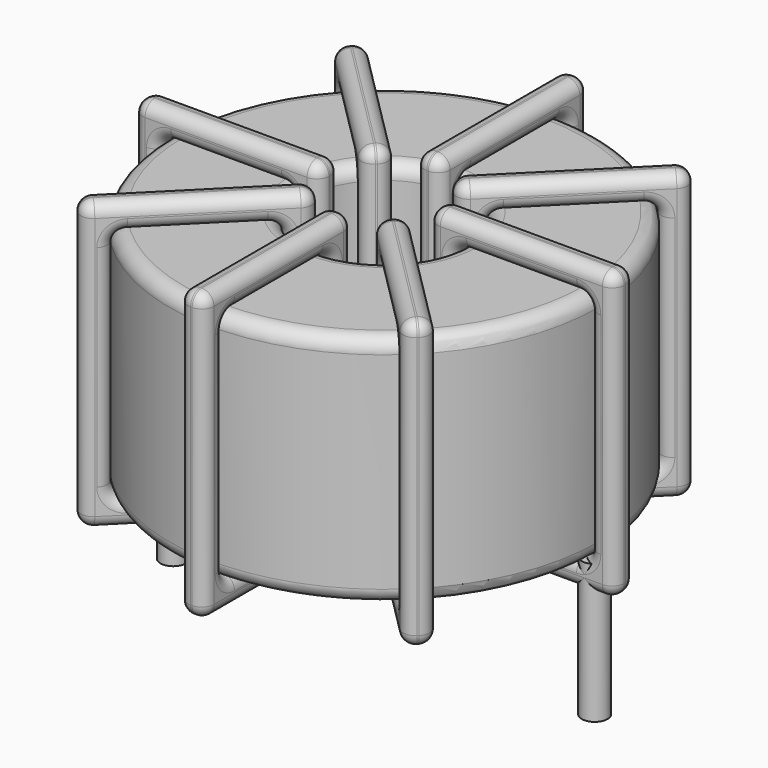
from build123d import *

# Parameters (mm, degrees)
SKETCH001_R       = 0.45
PAD001_DEPTH      = 0.45
PAD001_DEPTH_BACK = 4.4
SKETCH_R          = 7.5
SKETCH_R_2        = 2.8
PAD_DEPTH         = 8.2
FILLET_R          = 0.5
SKETCH003_W       = 6.5
SKETCH003_H       = 10
SKETCH003_W_2     = 4.7
SKETCH003_H_2     = 8.2
PAD002_DEPTH      = 0.45
FILLET001_R       = 0.423
SKETCH004_W       = 6.5
SKETCH004_H       = 10
SKETCH004_W_2     = 4.7
SKETCH004_H_2     = 8.2
PAD003_DEPTH      = 0.45
FILLET002_R       = 0.423
SKETCH005_W       = 6.5
SKETCH005_H       = 10
SKETCH005_W_2     = 4.7
SKETCH005_H_2     = 8.2
PAD004_DEPTH      = 0.45
FILLET003_R       = 0.423
SKETCH006_W       = 6.5
SKETCH006_H       = 10
SKETCH006_W_2     = 4.7
SKETCH006_H_2     = 8.2
PAD005_DEPTH      = 0.45
FILLET004_R       = 0.423


with BuildPart() as pad001:
    # Sketch001 → Pad001 (new body, two sides)
    with BuildSketch(Plane.XY.offset(0.95)) as pad001_sk:
        Circle(SKETCH001_R)
        with Locations((14.7, 0)):
            Circle(SKETCH001_R)
    extrude(amount=PAD001_DEPTH)
    extrude(pad001_sk.sketch, amount=-PAD001_DEPTH_BACK)


with BuildPart() as fillet_body:
    # Sketch → Pad (new body)
    with BuildSketch(Plane.XY.offset(1.4)):
        with Locations((7.35, 0)):
            Circle(SKETCH_R)
        with Locations((7.35, 0)):
            Circle(SKETCH_R_2, mode=Mode.SUBTRACT)
    extrude(amount=PAD_DEPTH)

    # Fillet
    fillet_edges = [fillet_body.edges().sort_by_distance(p)[0] for p in [
        (4.55, 0, 9.6),
        (-0.15, 0, 9.6),
        (-0.15, 0, 1.4),
    ]]
    fillet(fillet_edges, radius=FILLET_R)


with BuildPart() as fillet001:
    # Sketch003 → Pad002 (new body, symmetric)
    with BuildSketch(Plane(origin=(7.35, 0, 0), x_dir=(1, 0, 0), z_dir=(0, -1, 0))):
        with Locations((-5.15, 5.5)):
            Rectangle(SKETCH003_W, SKETCH003_H)
        with Locations((-5.15, 5.5)):
            Rectangle(SKETCH003_W_2, SKETCH003_H_2, mode=Mode.SUBTRACT)
        with Locations((5.15, 5.5)):
            Rectangle(SKETCH003_W, SKETCH003_H)
        with Locations((5.15, 5.5)):
            Rectangle(SKETCH003_W_2, SKETCH003_H_2, mode=Mode.SUBTRACT)
    extrude(amount=PAD002_DEPTH, both=True)

    # Fillet001
    fillet001_edges = [fillet001.edges().sort_by_distance(p)[0] for p in [
        (14.85, 0, 9.6),
        (14.85, 0, 1.4),
        (14.85, 0.45, 5.5),
        (14.85, -0.45, 5.5),
        (15.75, 0, 0.5),
        (9.25, 0, 0.5),
        (12.5, 0.45, 0.5),
        (12.5, -0.45, 0.5),
        (9.25, 0, 10.5),
        (9.25, 0.45, 5.5),
        (9.25, -0.45, 5.5),
        (-0.15, 0, 9.6),
        (4.55, 0, 9.6),
        (2.2, 0.45, 9.6),
        (2.2, -0.45, 9.6),
        (4.55, 0, 1.4),
        (4.55, 0.45, 5.5),
        (4.55, -0.45, 5.5),
        (5.45, 0, 0.5),
        (-1.05, 0, 0.5),
        (2.2, 0.45, 0.5),
        (2.2, -0.45, 0.5),
        (-1.05, 0, 10.5),
        (-1.05, 0.45, 5.5),
        (-1.05, -0.45, 5.5),
        (10.15, 0, 9.6),
        (12.5, 0.45, 9.6),
        (12.5, -0.45, 9.6),
        (-0.15, 0, 1.4),
        (-0.15, 0.45, 5.5),
        (-0.15, -0.45, 5.5),
        (2.2, 0.45, 1.4),
        (2.2, -0.45, 1.4),
        (5.45, 0, 10.5),
        (2.2, 0.45, 10.5),
        (2.2, -0.45, 10.5),
        (5.45, 0.45, 5.5),
        (5.45, -0.45, 5.5),
        (15.75, 0, 10.5),
        (12.5, 0.45, 10.5),
        (12.5, -0.45, 10.5),
        (15.75, 0.45, 5.5),
        (15.75, -0.45, 5.5),
        (10.15, 0, 1.4),
        (10.15, 0.45, 5.5),
        (10.15, -0.45, 5.5),
        (12.5, 0.45, 1.4),
        (12.5, -0.45, 1.4),
    ]]
    fillet(fillet001_edges, radius=FILLET001_R)


with BuildPart() as fillet002:
    # Sketch004 → Pad003 (new body, symmetric)
    with BuildSketch(Plane(origin=(7.35, 0, 0), x_dir=(0.707107, 0.707107, 0), z_dir=(0.707107, -0.707107, 0))):
        with Locations((-5.15, 5.5)):
            Rectangle(SKETCH004_W, SKETCH004_H)
        with Locations((-5.15, 5.5)):
            Rectangle(SKETCH004_W_2, SKETCH004_H_2, mode=Mode.SUBTRACT)
        with Locations((5.15, 5.5)):
            Rectangle(SKETCH004_W, SKETCH004_H)
        with Locations((5.15, 5.5)):
            Rectangle(SKETCH004_W_2, SKETCH004_H_2, mode=Mode.SUBTRACT)
    extrude(amount=PAD003_DEPTH, both=True)

    # Fillet002
    fillet002_edges = [fillet002.edges().sort_by_distance(p)[0] for p in [
        (12.653301, 5.303301, 9.6),
        (12.653301, 5.303301, 1.4),
        (12.335103, 5.621499, 5.5),
        (12.971499, 4.985103, 5.5),
        (13.289697, 5.939697, 0.5),
        (8.693503, 1.343503, 0.5),
        (10.673402, 3.959798, 0.5),
        (11.309798, 3.323402, 0.5),
        (8.693503, 1.343503, 10.5),
        (8.375305, 1.661701, 5.5),
        (9.011701, 1.025305, 5.5),
        (2.046699, -5.303301, 9.6),
        (5.370101, -1.979899, 9.6),
        (3.390202, -3.323402, 9.6),
        (4.026598, -3.959798, 9.6),
        (5.370101, -1.979899, 1.4),
        (5.051903, -1.661701, 5.5),
        (5.688299, -2.298097, 5.5),
        (6.006497, -1.343503, 10.5),
        (6.006497, -1.343503, 0.5),
        (5.688299, -1.025305, 5.5),
        (6.324695, -1.661701, 5.5),
        (1.410303, -5.939697, 10.5),
        (3.390202, -3.323402, 10.5),
        (4.026598, -3.959798, 10.5),
        (9.329899, 1.979899, 9.6),
        (10.673402, 3.959798, 9.6),
        (11.309798, 3.323402, 9.6),
        (2.046699, -5.303301, 1.4),
        (1.728501, -4.985103, 5.5),
        (2.364897, -5.621499, 5.5),
        (3.390202, -3.323402, 1.4),
        (4.026598, -3.959798, 1.4),
        (1.410303, -5.939697, 0.5),
        (1.092105, -5.621499, 5.5),
        (1.728501, -6.257895, 5.5),
        (3.390202, -3.323402, 0.5),
        (4.026598, -3.959798, 0.5),
        (13.289697, 5.939697, 10.5),
        (10.673402, 3.959798, 10.5),
        (11.309798, 3.323402, 10.5),
        (12.971499, 6.257895, 5.5),
        (13.607895, 5.621499, 5.5),
        (9.329899, 1.979899, 1.4),
        (9.011701, 2.298097, 5.5),
        (9.648097, 1.661701, 5.5),
        (10.673402, 3.959798, 1.4),
        (11.309798, 3.323402, 1.4),
    ]]
    fillet(fillet002_edges, radius=FILLET002_R)


with BuildPart() as fillet003:
    # Sketch005 → Pad004 (new body, symmetric)
    with BuildSketch(Plane(origin=(7.35, 0, 0), x_dir=(0.707107, -0.707107, 0), z_dir=(-0.707107, -0.707107, 0))):
        with Locations((-5.15, 5.5)):
            Rectangle(SKETCH005_W, SKETCH005_H)
        with Locations((-5.15, 5.5)):
            Rectangle(SKETCH005_W_2, SKETCH005_H_2, mode=Mode.SUBTRACT)
        with Locations((5.15, 5.5)):
            Rectangle(SKETCH005_W, SKETCH005_H)
        with Locations((5.15, 5.5)):
            Rectangle(SKETCH005_W_2, SKETCH005_H_2, mode=Mode.SUBTRACT)
    extrude(amount=PAD004_DEPTH, both=True)

    # Fillet003
    fillet003_edges = [fillet003.edges().sort_by_distance(p)[0] for p in [
        (12.653301, -5.303301, 9.6),
        (12.653301, -5.303301, 1.4),
        (12.971499, -4.985103, 5.5),
        (12.335103, -5.621499, 5.5),
        (13.289697, -5.939697, 0.5),
        (8.693503, -1.343503, 0.5),
        (11.309798, -3.323402, 0.5),
        (10.673402, -3.959798, 0.5),
        (8.693503, -1.343503, 10.5),
        (9.011701, -1.025305, 5.5),
        (8.375305, -1.661701, 5.5),
        (2.046699, 5.303301, 9.6),
        (5.370101, 1.979899, 9.6),
        (4.026598, 3.959798, 9.6),
        (3.390202, 3.323402, 9.6),
        (5.370101, 1.979899, 1.4),
        (5.688299, 2.298097, 5.5),
        (5.051903, 1.661701, 5.5),
        (6.006497, 1.343503, 0.5),
        (1.410303, 5.939697, 0.5),
        (4.026598, 3.959798, 0.5),
        (3.390202, 3.323402, 0.5),
        (1.410303, 5.939697, 10.5),
        (1.728501, 6.257895, 5.5),
        (1.092105, 5.621499, 5.5),
        (9.329899, -1.979899, 9.6),
        (11.309798, -3.323402, 9.6),
        (10.673402, -3.959798, 9.6),
        (2.046699, 5.303301, 1.4),
        (2.364897, 5.621499, 5.5),
        (1.728501, 4.985103, 5.5),
        (4.026598, 3.959798, 1.4),
        (3.390202, 3.323402, 1.4),
        (6.006497, 1.343503, 10.5),
        (4.026598, 3.959798, 10.5),
        (3.390202, 3.323402, 10.5),
        (6.324695, 1.661701, 5.5),
        (5.688299, 1.025305, 5.5),
        (13.289697, -5.939697, 10.5),
        (11.309798, -3.323402, 10.5),
        (10.673402, -3.959798, 10.5),
        (13.607895, -5.621499, 5.5),
        (12.971499, -6.257895, 5.5),
        (9.329899, -1.979899, 1.4),
        (9.648097, -1.661701, 5.5),
        (9.011701, -2.298097, 5.5),
        (11.309798, -3.323402, 1.4),
        (10.673402, -3.959798, 1.4),
    ]]
    fillet(fillet003_edges, radius=FILLET003_R)


with BuildPart() as fillet004:
    # Sketch006 → Pad005 (new body, symmetric)
    with BuildSketch(Plane.YZ.offset(7.35)):
        with Locations((-5.15, 5.5)):
            Rectangle(SKETCH006_W, SKETCH006_H)
        with Locations((-5.15, 5.5)):
            Rectangle(SKETCH006_W_2, SKETCH006_H_2, mode=Mode.SUBTRACT)
        with Locations((5.15, 5.5)):
            Rectangle(SKETCH006_W, SKETCH006_H)
        with Locations((5.15, 5.5)):
            Rectangle(SKETCH006_W_2, SKETCH006_H_2, mode=Mode.SUBTRACT)
    extrude(amount=PAD005_DEPTH, both=True)

    # Fillet004
    fillet004_edges = [fillet004.edges().sort_by_distance(p)[0] for p in [
        (7.35, -2.8, 9.6),
        (7.35, -2.8, 1.4),
        (6.9, -2.8, 5.5),
        (7.8, -2.8, 5.5),
        (7.35, -8.4, 10.5),
        (7.35, -1.9, 10.5),
        (6.9, -5.15, 10.5),
        (7.8, -5.15, 10.5),
        (7.35, -1.9, 0.5),
        (6.9, -1.9, 5.5),
        (7.8, -1.9, 5.5),
        (7.35, 2.8, 9.6),
        (7.35, 7.5, 9.6),
        (6.9, 5.15, 9.6),
        (7.8, 5.15, 9.6),
        (7.35, 7.5, 1.4),
        (6.9, 7.5, 5.5),
        (7.8, 7.5, 5.5),
        (7.35, 1.9, 10.5),
        (7.35, 8.4, 10.5),
        (6.9, 5.15, 10.5),
        (7.8, 5.15, 10.5),
        (7.35, 8.4, 0.5),
        (6.9, 8.4, 5.5),
        (7.8, 8.4, 5.5),
        (7.35, -7.5, 9.6),
        (6.9, -5.15, 9.6),
        (7.8, -5.15, 9.6),
        (7.35, 2.8, 1.4),
        (6.9, 2.8, 5.5),
        (7.8, 2.8, 5.5),
        (6.9, 5.15, 1.4),
        (7.8, 5.15, 1.4),
        (7.35, 1.9, 0.5),
        (6.9, 5.15, 0.5),
        (7.8, 5.15, 0.5),
        (6.9, 1.9, 5.5),
        (7.8, 1.9, 5.5),
        (7.35, -8.4, 0.5),
        (6.9, -5.15, 0.5),
        (7.8, -5.15, 0.5),
        (6.9, -8.4, 5.5),
        (7.8, -8.4, 5.5),
        (7.35, -7.5, 1.4),
        (6.9, -7.5, 5.5),
        (7.8, -7.5, 5.5),
        (6.9, -5.15, 1.4),
        (7.8, -5.15, 1.4),
    ]]
    fillet(fillet004_edges, radius=FILLET004_R)


solid = Compound([pad001.part, fillet_body.part, fillet001.part, fillet002.part, fillet003.part, fillet004.part])
